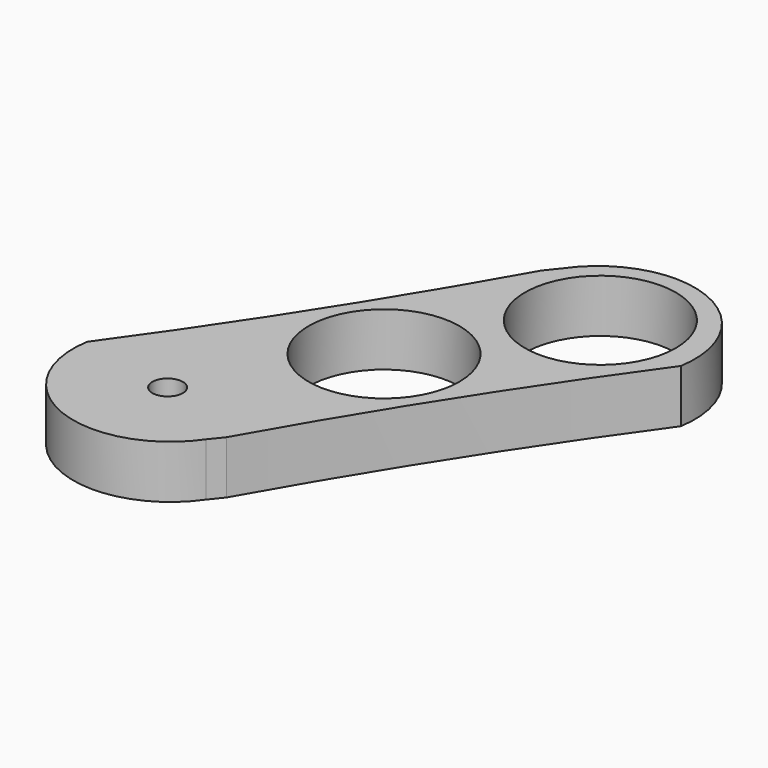
from build123d import *

# Parameters (mm, degrees)
F0_R     = 2.224339
F0_R_2   = 11.0109
F1_DEPTH = 7.747


with BuildPart() as f1:
    # F0 (on Top) → F1 (new body)
    with BuildSketch(Plane.XY):
        with BuildLine():
            ThreePointArc((-1.174814, -27.296896), (12.903385, -3.819525), (28.296221, 18.817684))
            ThreePointArc((28.296221, 18.817684), (19.601675, 34.242714), (2.648415, 29.132562))
            ThreePointArc((2.648415, 29.132562), (1.912702, 28.213856), (1.174814, 27.296896))
            ThreePointArc((1.174814, 27.296896), (-12.903385, 3.819525), (-28.296221, -18.817684))
            ThreePointArc((-28.296221, -18.817684), (-19.601675, -34.242714), (-2.648415, -29.132562))
            ThreePointArc((-2.648415, -29.132562), (-1.912702, -28.213856), (-1.174814, -27.296896))
        make_face()
        with Locations((-14.078413, -21.884268)):
            Circle(F0_R, mode=Mode.SUBTRACT)
        Circle(F0_R_2, mode=Mode.SUBTRACT)
        with Locations((14.078413, 21.884268)):
            Circle(F0_R_2, mode=Mode.SUBTRACT)
    extrude(amount=F1_DEPTH)


solid = f1.part
